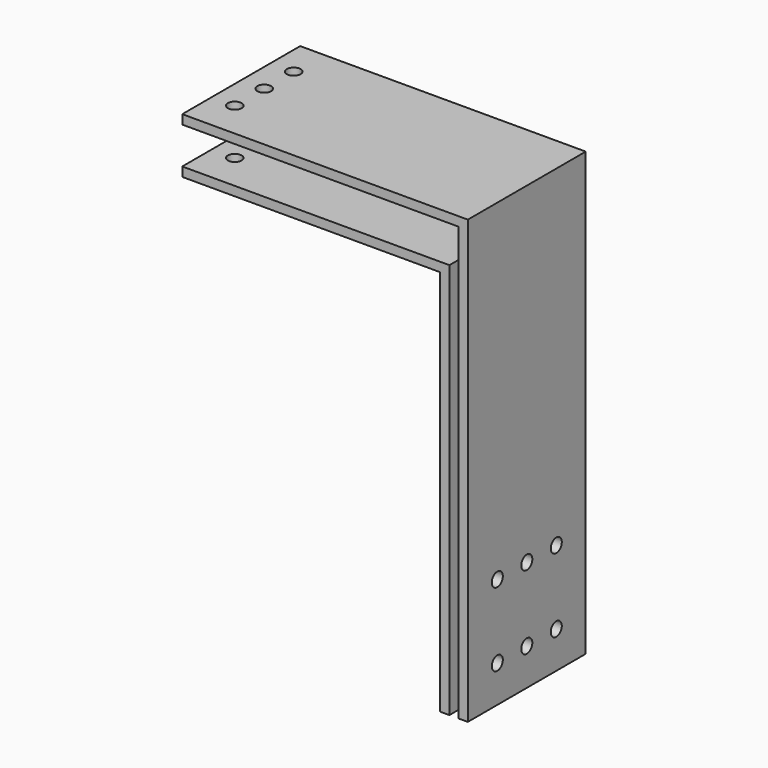
from build123d import *

# Parameters (mm, degrees)
F1_DEPTH = 50.8
F2_R     = 4.7625
F3_DEPTH = 196.851
F4_R     = 4.7625
F5_DEPTH = 304.801


with BuildPart() as f1:
    # F0 (on Front) → F1 (new body, symmetric)
    with BuildSketch(Plane.XZ):
        Polygon((184.15, -31.75), (0, -31.75), (0, -38.1), (177.8, -38.1), (177.8, -304.8), (184.15, -304.8), align=None)
        Polygon((0, -6.35), (190.5, -6.35), (190.5, -304.8), (196.85, -304.8), (196.85, 0), (0, 0), align=None)
    extrude(amount=F1_DEPTH, both=True)

    # F2 (on face) → F3 (cut, through all)
    with BuildSketch(Plane.YZ.offset(196.85)):
        with Locations((-25.4, -279.4)):
            Circle(F2_R)
        with Locations((-25.4, -228.6)):
            Circle(F2_R)
        with Locations((0, -279.4)):
            Circle(F2_R)
        with Locations((0, -228.6)):
            Circle(F2_R)
        with Locations((25.4, -279.4)):
            Circle(F2_R)
        with Locations((25.4, -228.6)):
            Circle(F2_R)
    extrude(amount=-F3_DEPTH, mode=Mode.SUBTRACT)

    # F4 (on face) → F5 (cut, through all)
    with BuildSketch(Plane.XY):
        with Locations((15.875, -25.4)):
            Circle(F4_R)
        with Locations((15.875, 0)):
            Circle(F4_R)
        with Locations((15.875, 25.4)):
            Circle(F4_R)
    extrude(amount=-F5_DEPTH, mode=Mode.SUBTRACT)


solid = f1.part
